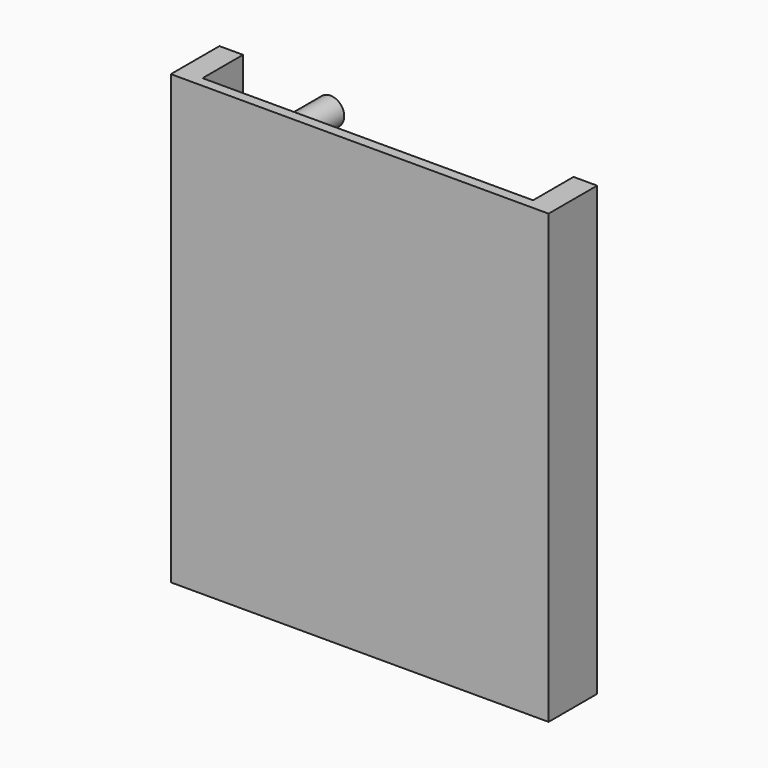
from build123d import *

# Parameters (mm, degrees)
F0_W     = 77.585459
F0_H     = 91.901824
F1_DEPTH = 12.46909
F2_W     = 67.887273
F2_H     = 91.439999
F3_DEPTH = 10.39091
F4_R     = 2.818603
F5_DEPTH = 18.67939
F7_DEPTH = 18.80963


with BuildPart() as f1:
    # F0 (on Front) → F1 (new body)
    with BuildSketch(Plane.XZ):
        with Locations((1.154546, -3.81)):
            Rectangle(F0_W, F0_H)
    extrude(amount=F1_DEPTH)

    # F2 (on Front) → F3 (cut)
    with BuildSketch(Plane.XZ):
        with Locations((1.154547, 0.346363)):
            Rectangle(F2_W, F2_H)
    extrude(amount=F3_DEPTH, mode=Mode.SUBTRACT)

    # F4 (on face) → F5 (join)
    with BuildSketch(Plane(origin=(0, -10.39091, 0), x_dir=(-1, 0, 0), z_dir=(0, 1, 0))):
        with Locations((21.451365, 32.264516)):
            Circle(F4_R)
        with Locations((21.451365, -35.390843)):
            Circle(F4_R)
    extrude(amount=F5_DEPTH)

    # F6 (on face) → F7 (join)
    with BuildSketch(Plane(origin=(0, -10.39091, 0), x_dir=(-1, 0, 0), z_dir=(0, 1, 0))):
        with BuildLine():
            ThreePointArc((16.163638, 24.36091), (14.893637, 25.630911), (13.623635, 24.36091))
            Line((13.623635, 24.36091), (13.623635, -28.748181))
            ThreePointArc((13.623635, -28.748181), (14.893637, -30.018182), (16.163638, -28.748181))
            Line((16.163638, -28.748181), (16.163638, 24.36091))
        make_face()
    extrude(amount=F7_DEPTH)


solid = f1.part
